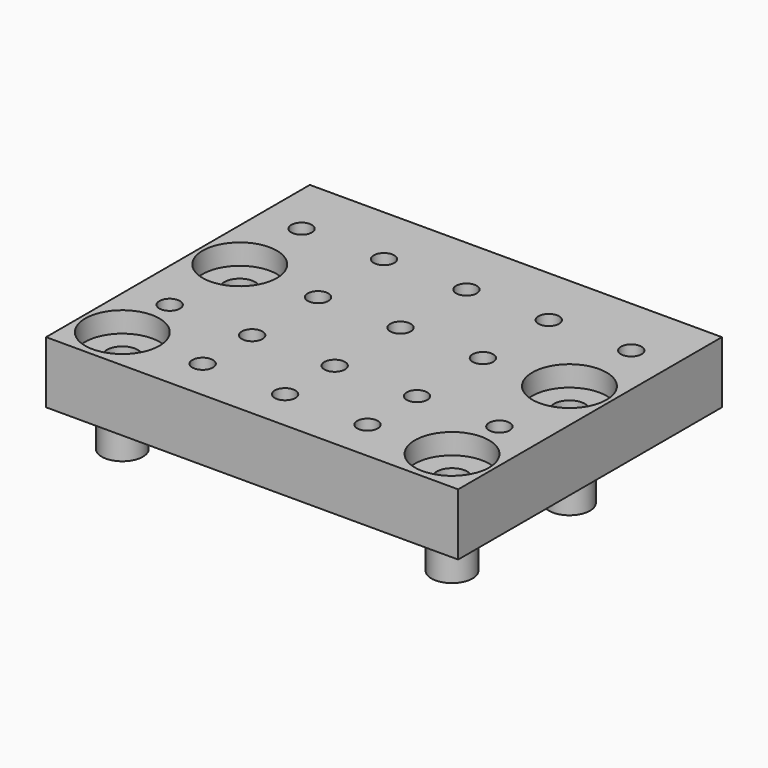
from build123d import *

# Parameters (mm, degrees)
F0_W      = 127
F0_H      = 101.6
F1_DEPTH  = 19.05
F2_R      = 4.7625
F3_DEPTH  = 25.4
F4_R      = 11.43
F5_DEPTH  = 6.35
F6_R      = 6.35
F6_R_2    = 4.7625
F7_DEPTH  = 12.7
F8_R      = 3.175
F9_DEPTH  = 25.4
F11_DEPTH = 5.159375


with BuildPart() as f1:
    # F0 (on Top) → F1 (new body)
    with BuildSketch(Plane.XY):
        Rectangle(F0_W, F0_H)
    extrude(amount=-F1_DEPTH)

    # F2 (on face) → F3 (cut)
    with BuildSketch(Plane.XY):
        with Locations((-50.8, 7.9375)):
            Circle(F2_R)
        with Locations((50.8, 7.9375)):
            Circle(F2_R)
        with Locations((-50.8, -37.30498)):
            Circle(F2_R)
        with Locations((50.8, -37.30498)):
            Circle(F2_R)
    extrude(amount=-F3_DEPTH, mode=Mode.SUBTRACT)

    # F4 (on face) → F5 (cut)
    with BuildSketch(Plane.XY):
        with Locations((-50.8, 7.9375)):
            Circle(F4_R)
        with Locations((-50.8, -37.30498)):
            Circle(F4_R)
        with Locations((50.8, -37.30498)):
            Circle(F4_R)
        with Locations((50.8, 7.9375)):
            Circle(F4_R)
    extrude(amount=-F5_DEPTH, mode=Mode.SUBTRACT)

    # F6 (on face) → F7 (join)
    with BuildSketch(Plane(origin=(0, 0, -19.05), x_dir=(1, 0, 0), z_dir=(0, 0, -1))):
        with Locations((50.8, -7.9375)):
            Circle(F6_R)
        with Locations((50.8, -7.9375)):
            Circle(F6_R_2, mode=Mode.SUBTRACT)
        with Locations((-50.8, -7.9375)):
            Circle(F6_R)
        with Locations((-50.8, -7.9375)):
            Circle(F6_R_2, mode=Mode.SUBTRACT)
        with Locations((-50.8, 37.30498)):
            Circle(F6_R)
        with Locations((-50.8, 37.30498)):
            Circle(F6_R_2, mode=Mode.SUBTRACT)
        with Locations((50.8, 37.30498)):
            Circle(F6_R)
        with Locations((50.8, 37.30498)):
            Circle(F6_R_2, mode=Mode.SUBTRACT)
    extrude(amount=F7_DEPTH)

    # F8 (on face) → F9 (cut)
    with BuildSketch(Plane.XY):
        with Locations((-50.8, 31.75)):
            Circle(F8_R)
        with Locations((-25.4, 31.75)):
            Circle(F8_R)
        with Locations((0, 31.75)):
            Circle(F8_R)
        with Locations((25.4, 31.75)):
            Circle(F8_R)
        with Locations((50.8, 31.75)):
            Circle(F8_R)
        with Locations((-25.4, 6.35)):
            Circle(F8_R)
        with Locations((0, 6.35)):
            Circle(F8_R)
        with Locations((25.4, 6.35)):
            Circle(F8_R)
        with Locations((-50.8, -19.05)):
            Circle(F8_R)
        with Locations((-25.4, -19.05)):
            Circle(F8_R)
        with Locations((0.053667, -19.05)):
            Circle(F8_R)
        with Locations((25.4, -19.05)):
            Circle(F8_R)
        with Locations((50.8, -19.05)):
            Circle(F8_R)
        with Locations((-25.4, -38.1)):
            Circle(F8_R)
        with Locations((0, -38.1)):
            Circle(F8_R)
        with Locations((25.4, -38.1)):
            Circle(F8_R)
    extrude(amount=-F9_DEPTH, mode=Mode.SUBTRACT)

    # F10 (on face) → F11 (cut)
    with BuildSketch(Plane(origin=(0, 0, -19.05), x_dir=(1, 0, 0), z_dir=(0, 0, -1))):
        Polygon((54.466174, -25.4), (47.133826, -25.4), (43.467652, -31.75), (47.133826, -38.1), (54.466174, -38.1), (58.132348, -31.75), align=None)
        Polygon((54.466174, 25.4), (47.133826, 25.4), (43.467652, 19.05), (47.133826, 12.7), (54.466174, 12.7), (58.132348, 19.05), align=None)
        Polygon((29.066174, -25.4), (21.733826, -25.4), (18.067652, -31.75), (21.733826, -38.1), (29.066174, -38.1), (32.732348, -31.75), align=None)
        Polygon((29.066174, 0), (21.733826, 0), (18.067652, -6.35), (21.733826, -12.7), (29.066174, -12.7), (32.732348, -6.35), align=None)
        Polygon((29.066174, 25.4), (21.733826, 25.4), (18.067652, 19.05), (21.733826, 12.7), (29.066174, 12.7), (32.732348, 19.05), align=None)
        Polygon((29.066174, 44.45), (21.733826, 44.45), (18.067652, 38.1), (21.733826, 31.75), (29.066174, 31.75), (32.732348, 38.1), align=None)
        Polygon((-47.133826, -25.4), (-54.466174, -25.4), (-58.132348, -31.75), (-54.466174, -38.1), (-47.133826, -38.1), (-43.467652, -31.75), align=None)
        Polygon((-47.474495, 24.809944), (-54.125505, 24.809944), (-57.45101, 19.05), (-54.125505, 13.290056), (-47.474495, 13.290056), (-44.14899, 19.05), align=None)
        Polygon((-21.733826, 44.45), (-29.066174, 44.45), (-32.732348, 38.1), (-29.066174, 31.75), (-21.733826, 31.75), (-18.067652, 38.1), align=None)
        Polygon((-21.733826, 25.4), (-29.066174, 25.4), (-32.732348, 19.05), (-29.066174, 12.7), (-21.733826, 12.7), (-18.067652, 19.05), align=None)
        Polygon((-21.733826, 0), (-29.066174, 0), (-32.732348, -6.35), (-29.066174, -12.7), (-21.733826, -12.7), (-18.067652, -6.35), align=None)
        Polygon((-21.733826, -25.4), (-29.066174, -25.4), (-32.732348, -31.75), (-29.066174, -38.1), (-21.733826, -38.1), (-18.067652, -31.75), align=None)
        Polygon((3.666174, -25.4), (-3.666174, -25.4), (-7.332348, -31.75), (-3.666174, -38.1), (3.666174, -38.1), (7.332348, -31.75), align=None)
        Polygon((-3.666174, -12.7), (3.666174, -12.7), (7.332348, -6.35), (3.666174, 0), (-3.666174, 0), (-7.332348, -6.35), align=None)
        Polygon((-3.666043, 12.731211), (3.666043, 12.669242), (7.385753, 18.988031), (3.773376, 25.368789), (-3.55871, 25.430758), (-7.27842, 19.111969), align=None)
        Polygon((-3.666174, 31.75), (3.666174, 31.75), (7.332348, 38.1), (3.666174, 44.45), (-3.666174, 44.45), (-7.332348, 38.1), align=None)
    extrude(amount=-F11_DEPTH, mode=Mode.SUBTRACT)


solid = f1.part
